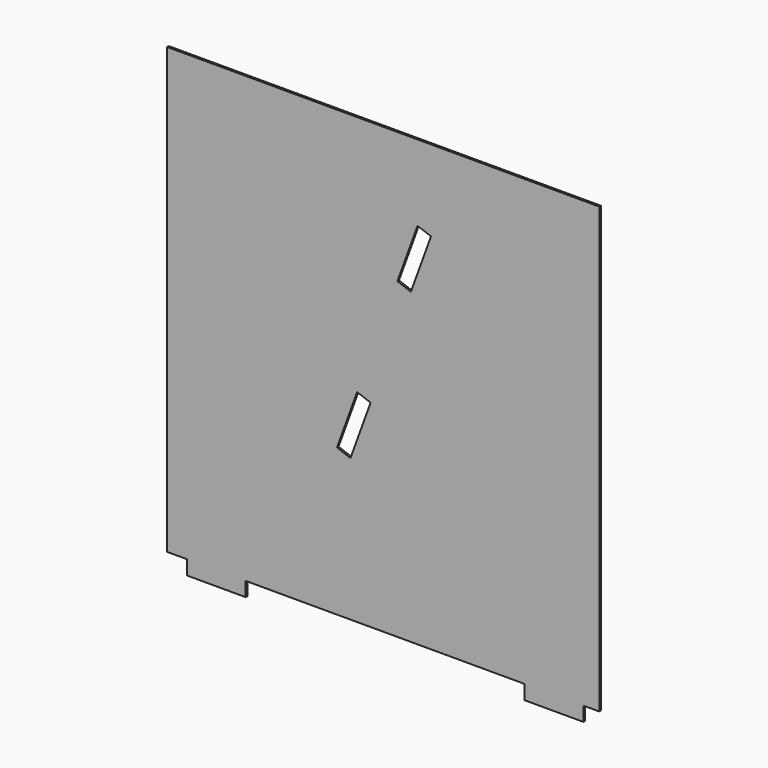
from build123d import *

# Parameters (mm, degrees)
F1_DEPTH = 2.54


with BuildPart() as f1:
    # F0 (on Front) → F1 (new body)
    with BuildSketch(Plane.XZ):
        Polygon((-219.682427, 267.214268), (-219.682427, -307.877308), (-194.282427, -307.877308), (-194.282427, -326.419308), (-118.082427, -326.419308), (-118.082427, -307.877308), (242.546773, -307.877308), (242.546773, -326.419308), (318.746773, -326.419308), (318.746773, -307.877308), (339.340164, -307.877308), (339.340164, 267.214268), align=None)
        Polygon((0, -117.554925), (26.061935, -45.950348), (43.485715, -52.292085), (17.423781, -123.896663), align=None, mode=Mode.SUBTRACT)
        Polygon((95.609585, 90.91707), (78.185805, 97.258808), (104.24774, 168.863385), (121.67152, 162.521648), align=None, mode=Mode.SUBTRACT)
    extrude(amount=F1_DEPTH)


solid = f1.part
